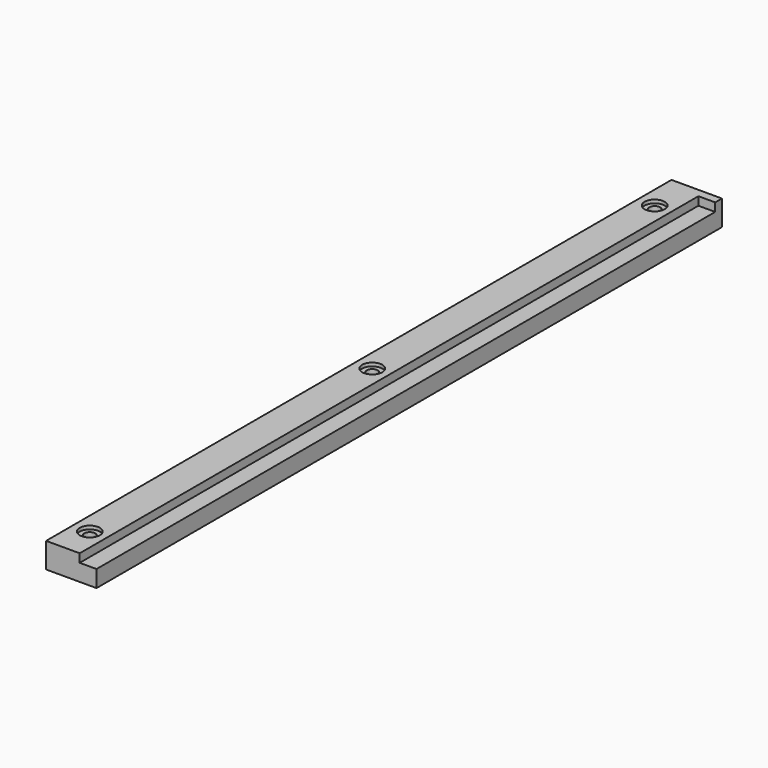
from build123d import *

# Parameters (mm, degrees)
F1_DEPTH       = 460
F3_D           = 6.5
F3_DEPTH       = 15
F3_CBORE_D     = 11
F3_CBORE_DEPTH = 5
F5_D           = 6.5
F5_DEPTH       = 15
F5_CBORE_D     = 12
F5_CBORE_DEPTH = 2
F6_W           = 30
F6_H           = 15
F7_DEPTH       = 5


with BuildPart() as f1:
    # F0 (on Front) → F1 (new body)
    with BuildSketch(Plane.XZ):
        Polygon((0, 15), (0, 0), (30, 0), (30, 10), (20, 10), (20, 15), align=None)
    extrude(amount=-F1_DEPTH)

    # F3
    with Locations(Plane(origin=(0, 0, 0), x_dir=(1, 0, 0), z_dir=(0, 0, -1))):
        with Locations((10, -440), (10, -230), (10, -20)):
            CounterBoreHole(F3_D / 2, F3_CBORE_D / 2, F3_CBORE_DEPTH, depth=F3_DEPTH)

    # F5
    with Locations(Plane.XY.offset(15)):
        with Locations((10, 440), (10, 230), (10, 20)):
            CounterBoreHole(F5_D / 2, F5_CBORE_D / 2, F5_CBORE_DEPTH, depth=F5_DEPTH)

    # F6 (on face) → F7 (join)
    with BuildSketch(Plane(origin=(0, 460, 0), x_dir=(-1, 0, 0), z_dir=(0, 1, 0))):
        with Locations((-15, 7.5)):
            Rectangle(F6_W, F6_H)
    extrude(amount=F7_DEPTH)


solid = f1.part
